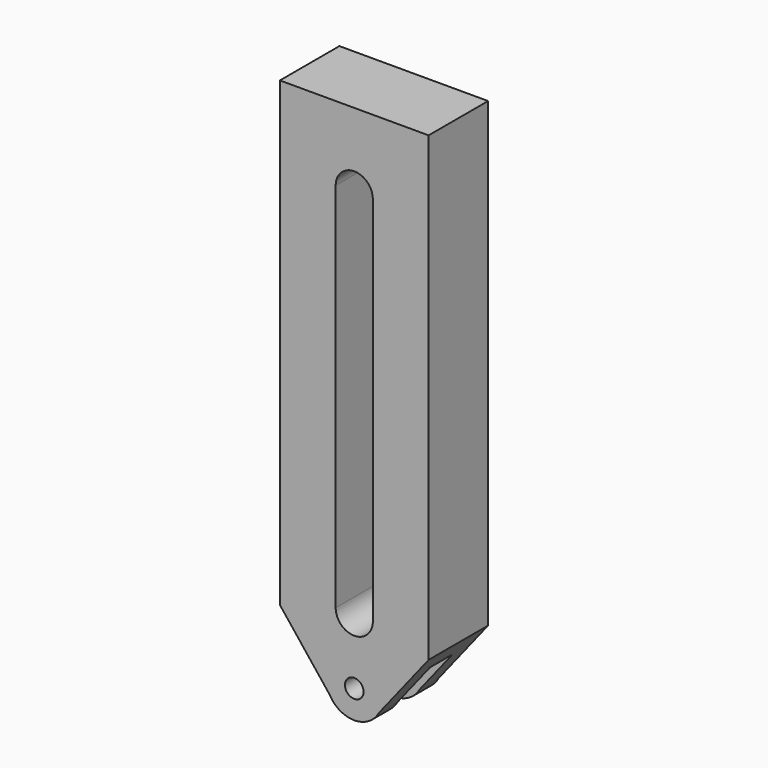
from build123d import *

# Parameters (mm, degrees)
F0_R     = 3.175
F1_DEPTH = 25.4
F2_W     = 9.525
F2_H     = 31.96759
F3_DEPTH = 50.801


with BuildPart() as f1:
    # F0 (on Front) → F1 (new body)
    with BuildSketch(Plane.XZ):
        with BuildLine():
            Line((25.4, -65.6671), (25.4, 92.075))
            Line((25.4, 92.075), (-25.4, 92.075))
            Line((-25.4, 92.075), (-25.4, -65.6671))
            Line((-25.4, -65.6671), (-8.411527, -87.130791))
            ThreePointArc((-8.411527, -87.130791), (0, -92.102698), (8.411527, -87.130791))
            Line((8.411527, -87.130791), (25.4, -65.6671))
        make_face()
        with Locations((0, -82.501387)):
            Circle(F0_R, mode=Mode.SUBTRACT)
        with BuildLine():
            Line((-6.35, -60.325), (-6.349989, 66.663336))
            ThreePointArc((-6.349989, 66.663336), (0.0202, 73.013256), (6.349786, 66.622862))
            Line((6.349786, 66.622862), (6.35, -60.324989))
            ThreePointArc((6.35, -60.324989), (5e-06, -66.675), (-6.35, -60.325))
        make_face(mode=Mode.SUBTRACT)
    extrude(amount=F1_DEPTH)

    # F2 (on face) → F3 (cut, through all)
    with BuildSketch(Plane.YZ.offset(25.4)):
        with Locations((-12.7, -89.016895)):
            Rectangle(F2_W, F2_H)
    extrude(amount=-F3_DEPTH, mode=Mode.SUBTRACT)


solid = f1.part
